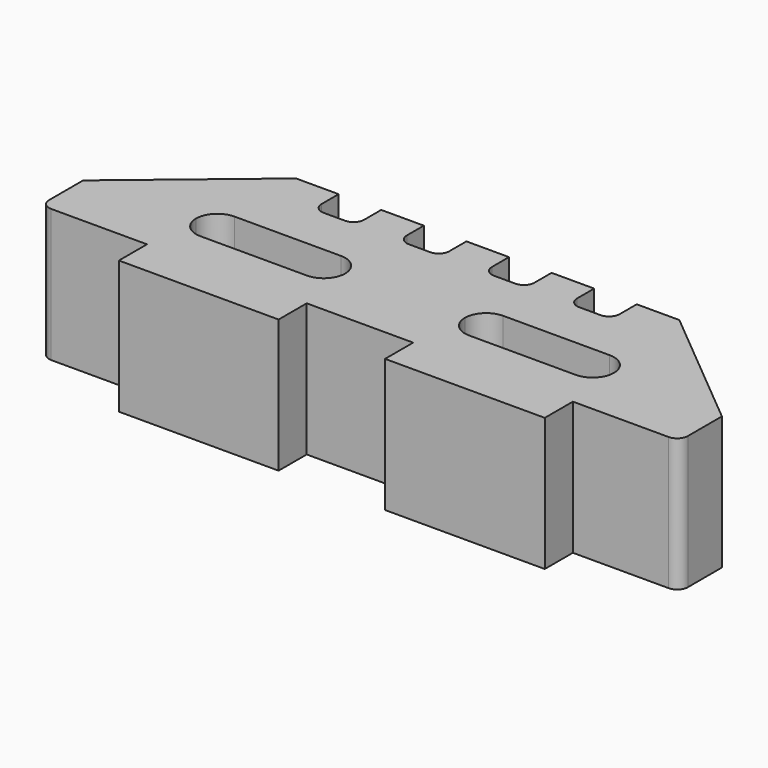
from build123d import *

# Parameters (mm, degrees)
F1_DEPTH = 25


with BuildPart() as f1:
    # F0 (on Top) → F1 (new body)
    with BuildSketch(Plane.XY):
        with BuildLine():
            ThreePointArc((-88, -6.400538), (-87.414214, -7.814751), (-86, -8.400538))
            Line((-86, -8.400538), (-68, -8.400538))
            Line((-68, -8.400538), (-68, -15))
            Line((-68, -15), (-38, -15))
            Line((-38, -15), (-38, -8.400538))
            Line((-38, -8.400538), (-28, -8.400538))
            Line((-28, -8.400538), (-28, -1.498692))
            Line((-28, -1.498692), (-28, 21.599462))
            Line((-28, 21.599462), (-32, 21.599462))
            Line((-32, 21.599462), (-32, 17.599462))
            ThreePointArc((-32, 17.599462), (-32.585786, 16.185249), (-34, 15.599462))
            Line((-34, 15.599462), (-38, 15.599462))
            ThreePointArc((-38, 15.599462), (-39.414214, 16.185249), (-40, 17.599462))
            Line((-40, 17.599462), (-40, 21.599462))
            Line((-40, 21.599462), (-48, 21.599462))
            Line((-48, 21.599462), (-48, 17.599462))
            ThreePointArc((-48, 17.599462), (-48.585786, 16.185249), (-50, 15.599462))
            Line((-50, 15.599462), (-54, 15.599462))
            ThreePointArc((-54, 15.599462), (-55.414214, 16.185249), (-56, 17.599462))
            Line((-56, 17.599462), (-56, 21.599462))
            Line((-56, 21.599462), (-64, 21.599462))
            Line((-64, 21.599462), (-88, 1.599462))
            Line((-88, 1.599462), (-88, -6.400538))
        make_face()
        with BuildLine():
            ThreePointArc((-67.497945, 2.501308), (-66.326372, 5.329735), (-63.497945, 6.501308))
            Line((-63.497945, 6.501308), (-43.497945, 6.501308))
            ThreePointArc((-43.497945, 6.501308), (-40.669517, 5.329735), (-39.497945, 2.501308))
            ThreePointArc((-39.497945, 2.501308), (-40.669517, -0.327119), (-43.497945, -1.498692))
            Line((-43.497945, -1.498692), (-63.497945, -1.498692))
            ThreePointArc((-63.497945, -1.498692), (-66.326372, -0.327119), (-67.497945, 2.501308))
        make_face(mode=Mode.SUBTRACT)
        with BuildLine():
            Line((-28, -1.498692), (-28, -8.400538))
            Line((-28, -8.400538), (-18, -8.400538))
            Line((-18, -8.400538), (-18, -15))
            Line((-18, -15), (12, -15))
            Line((12, -15), (12, -8.400538))
            Line((12, -8.400538), (30, -8.400538))
            ThreePointArc((30, -8.400538), (31.414214, -7.814751), (32, -6.400538))
            Line((32, -6.400538), (32, 1.599462))
            Line((32, 1.599462), (8, 21.599462))
            Line((8, 21.599462), (0, 21.599462))
            Line((0, 21.599462), (0, 17.599462))
            ThreePointArc((0, 17.599462), (-0.585786, 16.185249), (-2, 15.599462))
            Line((-2, 15.599462), (-6, 15.599462))
            ThreePointArc((-6, 15.599462), (-7.414214, 16.185249), (-8, 17.599462))
            Line((-8, 17.599462), (-8, 21.599462))
            Line((-8, 21.599462), (-16, 21.599462))
            Line((-16, 21.599462), (-16, 17.599462))
            ThreePointArc((-16, 17.599462), (-16.585786, 16.185249), (-18, 15.599462))
            Line((-18, 15.599462), (-22, 15.599462))
            ThreePointArc((-22, 15.599462), (-23.414214, 16.185249), (-24, 17.599462))
            Line((-24, 17.599462), (-24, 21.599462))
            Line((-24, 21.599462), (-28, 21.599462))
            Line((-28, 21.599462), (-28, -1.498692))
        make_face()
        with BuildLine():
            ThreePointArc((-17, 2.501308), (-15.828427, 5.329735), (-13, 6.501308))
            Line((-13, 6.501308), (7, 6.501308))
            ThreePointArc((7, 6.501308), (9.828427, 5.329735), (11, 2.501308))
            ThreePointArc((11, 2.501308), (9.828427, -0.327119), (7, -1.498692))
            Line((7, -1.498692), (-13, -1.498692))
            ThreePointArc((-13, -1.498692), (-15.828427, -0.327119), (-17, 2.501308))
        make_face(mode=Mode.SUBTRACT)
    extrude(amount=F1_DEPTH)


solid = f1.part
